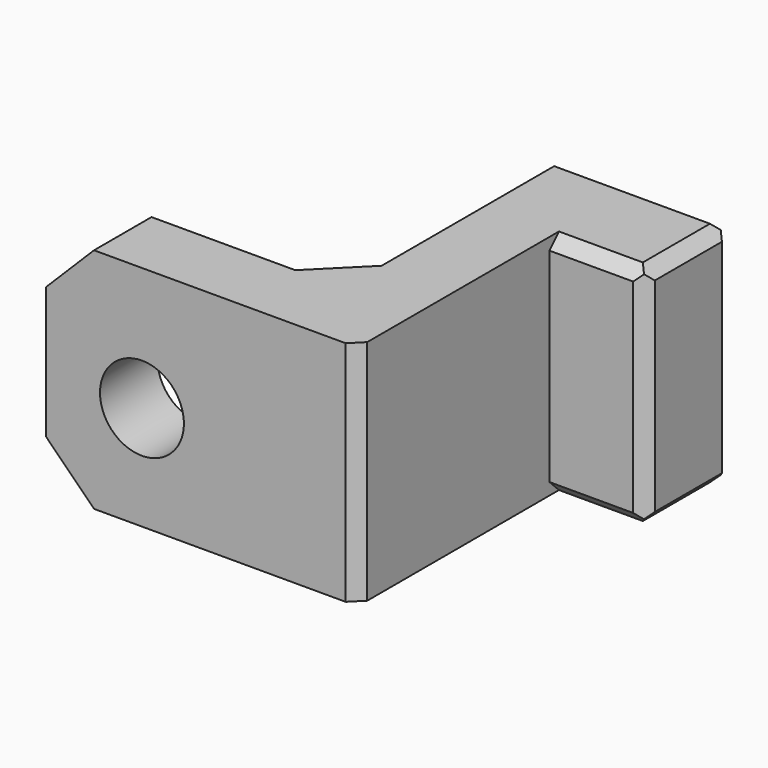
from build123d import *

# Parameters (mm, degrees)
PAD_DEPTH       = 9.5
CHAMFER_SIZE    = 0.5
CHAMFER001_SIZE = 0.5
CHAMFER002_SIZE = 2
CHAMFER003_SIZE = 0.5
CHAMFER004_SIZE = 2
SKETCH001_R     = 1.75
POCKET_DEPTH    = 5


with BuildPart() as part:
    # Sketch → Pad (new body)
    with BuildSketch(Plane.XY):
        Polygon((-13, 0), (0, 0), (0, 10), (4, 10), (4, 14.5), (-3, 14.5), (-3, 3), (-13, 3), align=None)
    extrude(amount=PAD_DEPTH)

    # Chamfer
    chamfer_edges = [part.edges().sort_by_distance(p)[0] for p in [
        (4, 10, 4.75),
        (4, 14.5, 4.75),
        (4, 12.25, 9.5),
        (4, 12.25, 0),
    ]]
    chamfer(chamfer_edges, length=CHAMFER_SIZE)

    # Chamfer001
    chamfer001_edges = [part.edges().sort_by_distance(p)[0] for p in [
        (1.75, 10, 0),
        (1.75, 10, 9.5),
        (0.25, 14.5, 9.5),
        (0.25, 14.5, 0),
    ]]
    chamfer(chamfer001_edges, length=CHAMFER001_SIZE)

    # Chamfer002
    chamfer002_edges = [part.edges().sort_by_distance(p)[0] for p in [
        (-3, 3, 4.75),
    ]]
    chamfer(chamfer002_edges, length=CHAMFER002_SIZE)

    # Chamfer003
    chamfer003_edges = [part.edges().sort_by_distance(p)[0] for p in [
        (0, 0, 4.75),
    ]]
    chamfer(chamfer003_edges, length=CHAMFER003_SIZE)

    # Chamfer004
    chamfer004_edges = [part.edges().sort_by_distance(p)[0] for p in [
        (-13, 1.5, 0),
        (-13, 1.5, 9.5),
    ]]
    chamfer(chamfer004_edges, length=CHAMFER004_SIZE)

    # Sketch001 (on Face5 of Chamfer004) → Pocket (cut)
    with BuildSketch(Plane(origin=(0, 3, 0), x_dir=(-1, 0, 0), z_dir=(0, 1, 0))):
        with Locations((9, 4.35)):
            Circle(SKETCH001_R)
    extrude(amount=-POCKET_DEPTH, mode=Mode.SUBTRACT)


solid = part.part
